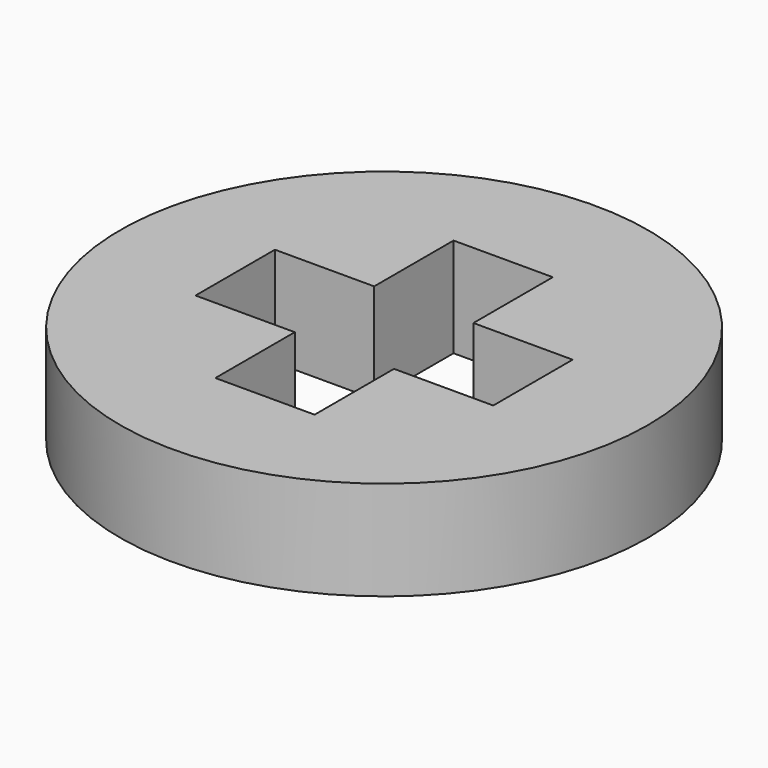
from build123d import *

# Parameters (mm, degrees)
F1_R     = 12.5
F2_DEPTH = 4.7


with BuildPart() as f2:
    # F1 (on Top) → F2 (new body)
    with BuildSketch(Plane.XY):
        Circle(F1_R)
        Polygon((-7.05, -2.35), (-7.05, 2.35), (-2.35, 2.35), (-2.35, 7.05), (2.35, 7.05), (2.35, 2.35), (7.05, 2.35), (7.05, -2.35), (2.35, -2.35), (2.35, -7.05), (-2.35, -7.05), (-2.35, -2.35), align=None, mode=Mode.SUBTRACT)
    extrude(amount=F2_DEPTH)


solid = f2.part
